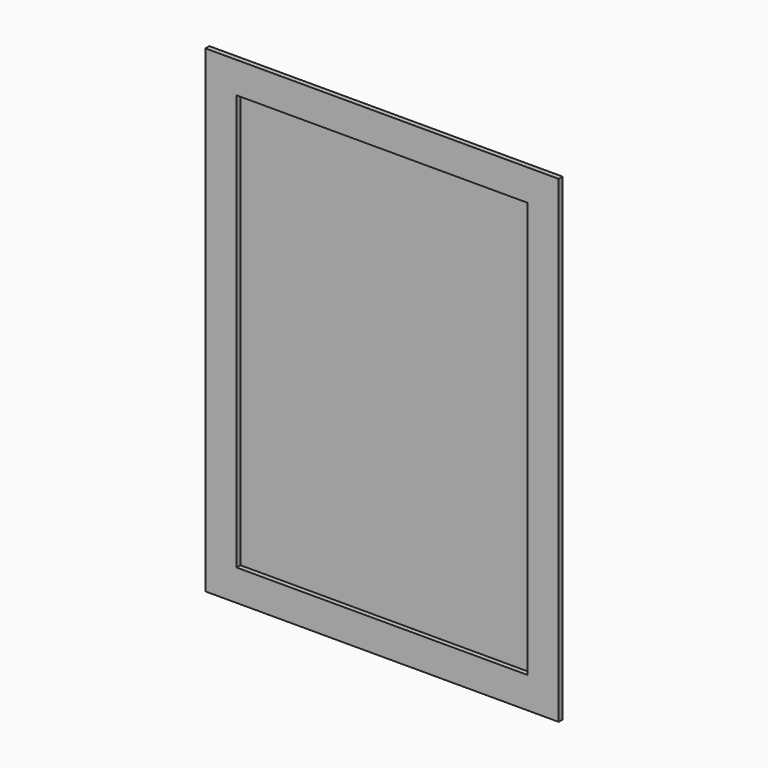
from build123d import *

# Parameters (mm, degrees)
F0_W     = 177.8
F0_H     = 254
F1_DEPTH = 3
F2_W     = 215.9
F2_H     = 292.1
F2_W_2   = 177.8
F2_H_2   = 254
F3_DEPTH = 3


with BuildPart() as f1:
    # F0 (on Front) → F1 (new body)
    with BuildSketch(Plane.XZ):
        with Locations((-22.089677, 12.420392)):
            Rectangle(F0_W, F0_H)
    extrude(amount=F1_DEPTH)


with BuildPart() as f3:
    # F2 (on face) → F3 (new body)
    with BuildSketch(Plane.XZ.offset(3)):
        with Locations((-22.089677, 12.420392)):
            Rectangle(F2_W, F2_H)
        with Locations((-22.089677, 12.420392)):
            Rectangle(F2_W_2, F2_H_2, mode=Mode.SUBTRACT)
    extrude(amount=F3_DEPTH)


solid = Compound([f1.part, f3.part])
